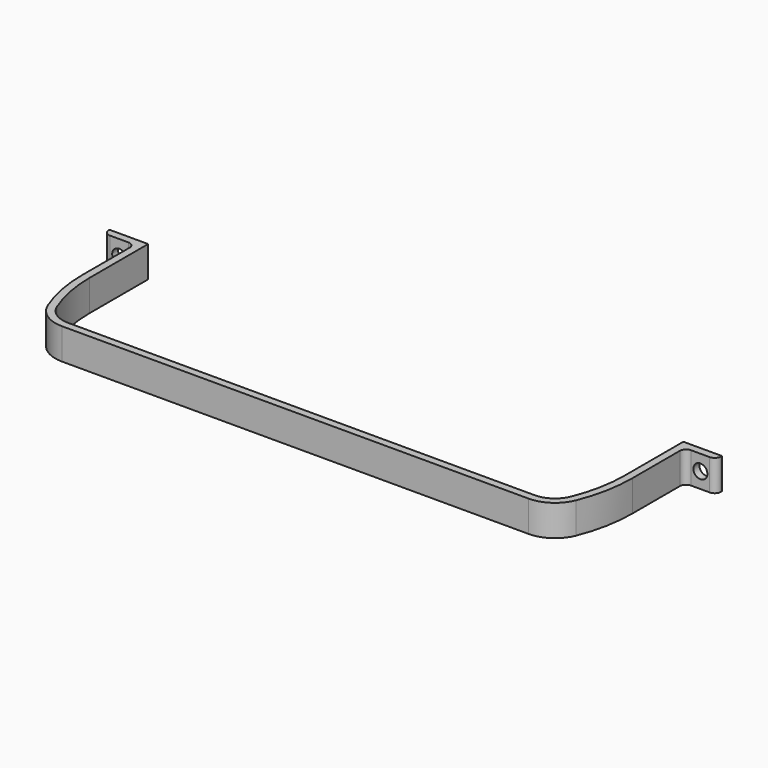
from build123d import *

# Parameters (mm, degrees)
F1_DEPTH = 5
F3_D     = 4.4958
F4_R     = 2


with BuildPart() as f1:
    # F0 (on Top) → F1 (new body, symmetric)
    with BuildSketch(Plane.XY):
        with BuildLine():
            Line((0, 2.4), (0, 0))
            Line((0, 0), (75, 0))
            ThreePointArc((75, 0), (80.9415780593, 1.816522709), (84.8515829028, 6.6449765723))
            ThreePointArc((84.8515829028, 6.6449765723), (87.5046708667, 15.6016514337), (88.4, 24.9))
            Line((88.4, 24.9), (88.4, 46))
            Line((88.4, 46), (98.4, 46))
            Line((98.4, 46), (98.4, 48.4))
            Line((98.4, 48.4), (86, 48.4))
            Line((86, 48.4), (86, 24.9))
            ThreePointArc((86, 24.9), (85.1487656265, 16.0595930226), (82.6263416519, 7.5440323965))
            ThreePointArc((82.6263416519, 7.5440323965), (79.5995150909, 3.8062128831), (75, 2.4))
            Line((75, 2.4), (0, 2.4))
        make_face()
    extrude(amount=F1_DEPTH, both=True)

    # F3 (through all)
    with Locations(Plane.XZ.offset(-46)):
        with Locations((93.4, 0)):
            Hole(F3_D / 2)

    # F4
    f4_edges = [f1.edges().sort_by_distance(p)[0] for p in [
        (88.4, 46, 0),
        (98.4, 46, 0),
    ]]
    fillet(f4_edges, radius=F4_R)

    # F5: F1 across face


with BuildPart() as f1_1:
    add(f1.part)
    add(f1.part.mirror(Plane(origin=(0, 1.2, 0), x_dir=(0, -1, 0), z_dir=(-1, 0, 0))))


solid = f1_1.part
